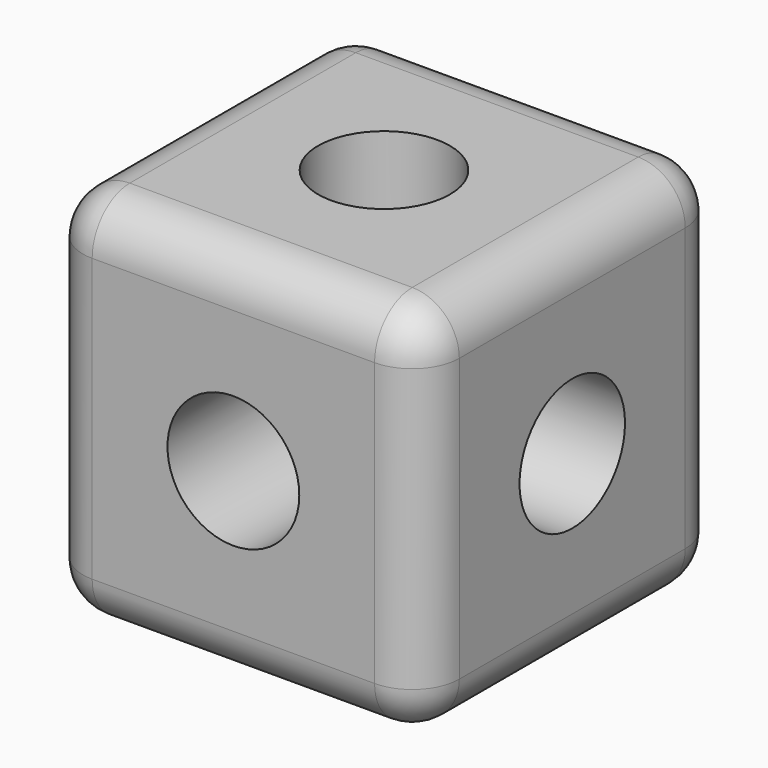
from build123d import *

# Parameters (mm, degrees)
F0_W     = 50.8
F0_H     = 50.8
F1_DEPTH = 25.4
F2_R     = 6.35
F3_R     = 8.89
F4_DEPTH = 50.8
F5_R     = 8.89
F6_DEPTH = 50.8
F7_R     = 8.89
F8_DEPTH = 50.8


with BuildPart() as f1:
    # F0 (on Front) → F1 (new body, symmetric)
    with BuildSketch(Plane.XZ):
        Rectangle(F0_W, F0_H)
    extrude(amount=F1_DEPTH, both=True)

    # F2
    f2_edges = [f1.edges().sort_by_distance(p)[0] for p in [
        (0, -25.4, 25.4),
        (25.4, 0, 25.4),
        (25.4, 0, -25.4),
        (0, -25.4, -25.4),
        (25.4, -25.4, 0),
        (0, 25.4, 25.4),
        (-25.4, 0, 25.4),
        (25.4, 25.4, 0),
        (-25.4, -25.4, 0),
        (-25.4, 0, -25.4),
        (-25.4, 25.4, 0),
        (0, 25.4, -25.4),
    ]]
    fillet(f2_edges, radius=F2_R)

    # F3 (on face) → F4 (cut, through all)
    with BuildSketch(Plane.XY.offset(25.4)):
        Circle(F3_R)
    extrude(amount=-F4_DEPTH, mode=Mode.SUBTRACT)

    # F5 (on face) → F6 (cut, through all)
    with BuildSketch(Plane.XZ.offset(25.4)):
        Circle(F5_R)
    extrude(amount=-F6_DEPTH, mode=Mode.SUBTRACT)

    # F7 (on face) → F8 (cut, through all)
    with BuildSketch(Plane.YZ.offset(25.4)):
        Circle(F7_R)
    extrude(amount=-F8_DEPTH, mode=Mode.SUBTRACT)


solid = f1.part
